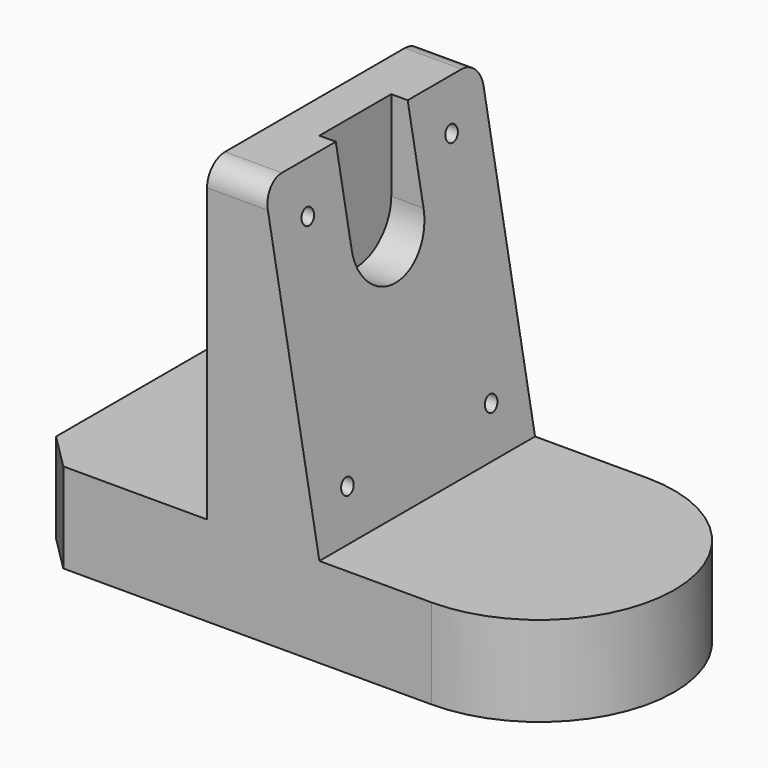
from build123d import *

# Parameters (mm, degrees)
F0_W           = 90
F0_H           = 60
F1_DEPTH       = 20
F2_SIZE        = 8
F4_DEPTH       = 60
F5_R           = 5
F7_D           = 3.4
F7_CBORE_D     = 7
F7_CBORE_DEPTH = 2.4
F9_W           = 20
F9_H           = 20
F10_DEPTH      = 8.9479207717


with BuildPart() as f1:
    # F0 (on Top) → F1 (new body)
    with BuildSketch(Plane.XY):
        with Locations((45, 30)):
            Rectangle(F0_W, F0_H)
        with BuildLine():
            Line((90, 60), (90, 0))
            ThreePointArc((90, 0), (120, 30), (90, 60))
        make_face()
    extrude(amount=F1_DEPTH)

    # F2
    f2_edges = [f1.edges().sort_by_distance(p)[0] for p in [
        (0, 0, 10),
        (0, 60, 10),
    ]]
    chamfer(f2_edges, length=F2_SIZE)

    # F3 (on Front) → F4 (join, through all)
    with BuildSketch(Plane.XZ):
        Polygon((40, 90), (40, 20), (65, 20), (52.6571113504, 90), align=None)
    extrude(amount=-F4_DEPTH)

    # F5
    f5_edges = [f1.edges().sort_by_distance(p)[0] for p in [
        (46.328556, 0, 90),
        (46.328556, 60, 90),
    ]]
    fillet(f5_edges, radius=F5_R)

    # F7 (through all)
    with Locations(Plane(origin=(40, 0, 0), x_dir=(0, -1, 0), z_dir=(-1, 0, 0))):
        with Locations((-50, 80), (-50, 30), (-10, 30), (-10, 80)):
            CounterBoreHole(F7_D / 2, F7_CBORE_D / 2, F7_CBORE_DEPTH)

    # F9 (on offset) → F10 (cut, through all)
    with BuildSketch(Plane(origin=(49, 0, 0), x_dir=(0, -1, 0), z_dir=(-1, 0, 0))):
        with Locations((-30, 80)):
            Rectangle(F9_W, F9_H)
        with BuildLine():
            ThreePointArc((-40, 70), (-30, 60), (-20, 70))
            Line((-20, 70), (-40, 70))
        make_face()
    extrude(amount=-F10_DEPTH, mode=Mode.SUBTRACT)


solid = f1.part
